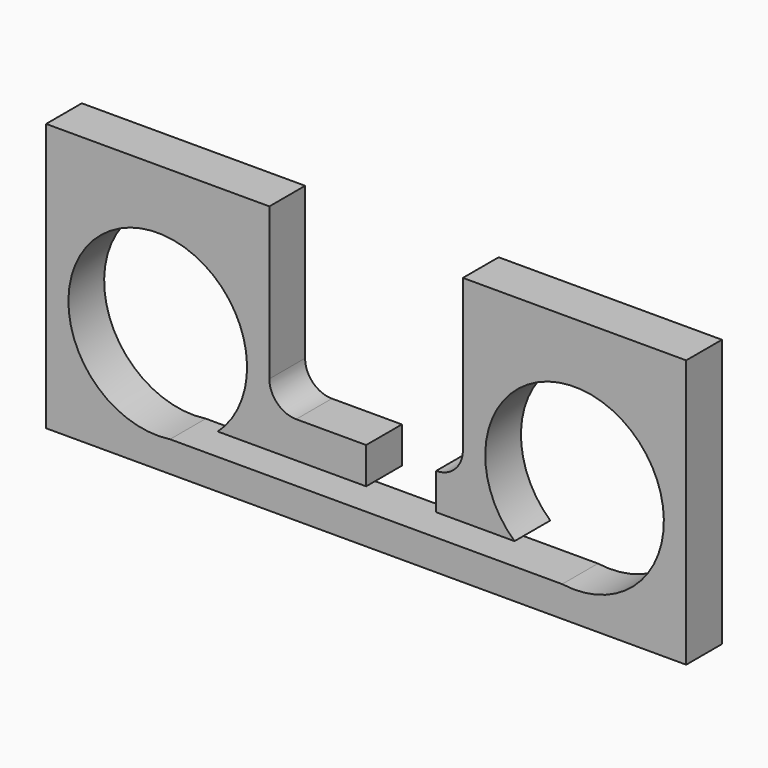
from build123d import *

# Parameters (mm, degrees)
F0_W     = 273.05
F0_H     = 114.3
F1_DEPTH = 19.05
F2_R     = 38.1
F3_DEPTH = 25.4
F5_DEPTH = 25.4
F7_DEPTH = 25.4


with BuildPart() as f1:
    # F0 (on Front) → F1 (new body)
    with BuildSketch(Plane.XZ):
        with Locations((136.525, 57.15)):
            Rectangle(F0_W, F0_H)
    extrude(amount=F1_DEPTH)

    # F2 (on face) → F3 (cut)
    with BuildSketch(Plane.XZ.offset(19.05)):
        with Locations((225.425, 50.8)):
            Circle(F2_R)
        with Locations((47.625, 50.8)):
            Circle(F2_R)
    extrude(amount=-F3_DEPTH, mode=Mode.SUBTRACT)

    # F4 (on face) → F5 (cut)
    with BuildSketch(Plane.XZ.offset(19.05)):
        with BuildLine():
            Line((177.8, 114.3), (95.25, 114.3))
            Line((95.25, 114.3), (95.25, 49.53))
            ThreePointArc((95.25, 49.53), (98.597769, 41.447769), (106.68, 38.1))
            Line((106.68, 38.1), (166.37, 38.1))
            ThreePointArc((166.37, 38.1), (174.452231, 41.447769), (177.8, 49.53))
            Line((177.8, 49.53), (177.8, 114.3))
        make_face()
    extrude(amount=-F5_DEPTH, mode=Mode.SUBTRACT)

    # F6 (on face) → F7 (cut)
    with BuildSketch(Plane.XZ.offset(19.05)):
        Polygon((166.37, 22.5902), (166.37, 38.1), (136.525, 38.1), (136.525, 22.5902), (54.541018, 22.5902), (42.362412, 13.0652), (230.687588, 13.0652), (218.817472, 22.5902), align=None)
    extrude(amount=-F7_DEPTH, mode=Mode.SUBTRACT)


solid = f1.part
